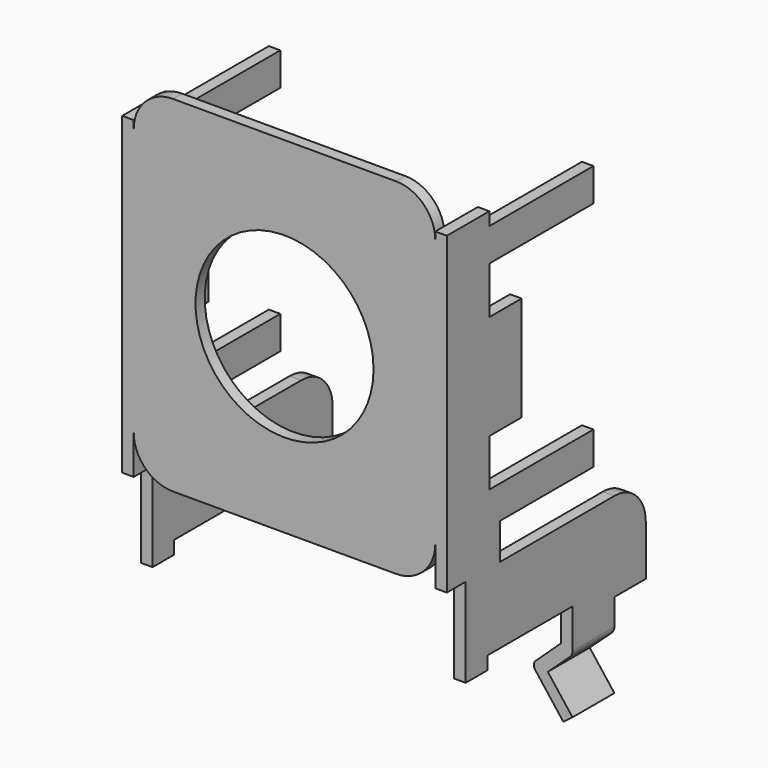
from build123d import *

# Parameters (mm, degrees)
EXTRUDE003_DEPTH = 2
EXTRUDE001_DEPTH = 0.44
EXTRUDE_DEPTH    = 0.44
SKETCH027_R      = 3.4
EXTRUDE002_DEPTH = 0.44


with BuildPart() as extrude003:
    # Sketch028 → Extrude003 (new body)
    with BuildSketch(Plane.XZ):
        with BuildLine():
            Line((0, 0), (0, -1))
            ThreePointArc((0, -1), (0.027181, -1.129591), (0.104142, -1.237338))
            Line((0.104142, -1.237338), (0.941285, -2.007596))
            Line((0.941285, -2.007596), (0, -3.231801))
            Line((0, -3.231801), (0.348811, -3.5))
            Line((0.348811, -3.5), (1.43, -2.093841))
            ThreePointArc((1.43, -2.093841), (1.476737, -1.935298), (1.404702, -1.786533))
            Line((1.404702, -1.786533), (0.44, -0.885948))
            Line((0.44, -0.885948), (0.44, 0))
            Line((0.44, 0), (0, 0))
        make_face()
    extrude(amount=EXTRUDE003_DEPTH)


with BuildPart() as extrude003_1:
    # Extrude003 placement: moved
    add(extrude003.part.moved(Location((-6.2, 7.56, -3.4))))


with BuildPart() as part_mirroring:
    # Part__Mirroring: instance of Extrude003
    add(extrude003_1.part.mirror(Plane(origin=(0, 0, 0), x_dir=(0, -1, 0), z_dir=(1, 0, 0))))


with BuildPart() as extrude001:
    # Sketch026 → Extrude001 (new body)
    with BuildSketch(Plane.YZ):
        with BuildLine():
            Line((0, 12), (2.03, 12))
            Line((2.03, 12), (2.03, 11.5))
            Line((2.03, 11.5), (7, 11.5))
            Line((7, 11.5), (7, 10.24))
            Line((7, 10.24), (2.03, 10.24))
            Line((2.03, 10.24), (2.03, 8.44))
            Line((2.03, 8.44), (3.57, 8.44))
            Line((3.57, 8.44), (3.57, 4.44))
            Line((3.57, 4.44), (2.03, 4.44))
            Line((2.03, 4.44), (2.03, 2.64))
            Line((2.03, 2.64), (7, 2.64))
            Line((7, 2.64), (7, 1.38))
            Line((7, 1.38), (2.53, 1.38))
            Line((2.53, 1.38), (2.53, 0))
            Line((2.53, 0), (8, 0))
            ThreePointArc((9.5, -1.5), (9.06066, -0.43934), (8, 0))
            Line((9.5, -1.5), (9.5, -3.4))
            Line((9.5, -3.4), (6, -3.4))
            Line((6, -3.4), (6, -2.9))
            Line((6, -2.9), (1.93, -2.9))
            Line((1.93, -2.9), (1.93, -3.4))
            Line((1.93, -3.4), (0.9, -3.4))
            Line((0.9, -3.4), (0.9, 0))
            Line((0.9, 0), (0, 0))
            Line((0, 0), (0, 12))
        make_face()
    extrude(amount=EXTRUDE001_DEPTH)


with BuildPart() as extrude001_1:
    # Extrude001 placement: moved
    add(extrude001.part.moved(Location((5.76, -0.44, 0))))


with BuildPart() as fusion:
    # Sketch026 → Extrude (new body)
    with BuildSketch(Plane.YZ):
        with BuildLine():
            Line((0, 12), (2.03, 12))
            Line((2.03, 12), (2.03, 11.5))
            Line((2.03, 11.5), (7, 11.5))
            Line((7, 11.5), (7, 10.24))
            Line((7, 10.24), (2.03, 10.24))
            Line((2.03, 10.24), (2.03, 8.44))
            Line((2.03, 8.44), (3.57, 8.44))
            Line((3.57, 8.44), (3.57, 4.44))
            Line((3.57, 4.44), (2.03, 4.44))
            Line((2.03, 4.44), (2.03, 2.64))
            Line((2.03, 2.64), (7, 2.64))
            Line((7, 2.64), (7, 1.38))
            Line((7, 1.38), (2.53, 1.38))
            Line((2.53, 1.38), (2.53, 0))
            Line((2.53, 0), (8, 0))
            ThreePointArc((9.5, -1.5), (9.06066, -0.43934), (8, 0))
            Line((9.5, -1.5), (9.5, -3.4))
            Line((9.5, -3.4), (6, -3.4))
            Line((6, -3.4), (6, -2.9))
            Line((6, -2.9), (1.93, -2.9))
            Line((1.93, -2.9), (1.93, -3.4))
            Line((1.93, -3.4), (0.9, -3.4))
            Line((0.9, -3.4), (0.9, 0))
            Line((0.9, 0), (0, 0))
            Line((0, 0), (0, 12))
        make_face()
    extrude(amount=EXTRUDE_DEPTH)


with BuildPart() as fusion_1:
    # Extrude placement: moved
    add(fusion.part.moved(Location((-6.2, -0.44, 0))))

    # Fusion: union Extrude001
    add(extrude001_1.part)


with BuildPart() as metalcover:
    # Sketch027 → Extrude002 (new body)
    with BuildSketch(Plane.XZ):
        with BuildLine():
            Line((1.94, 13.2), (10.46, 13.2))
            ThreePointArc((11.96, 11.7), (11.52066, 12.76066), (10.46, 13.2))
            Line((11.96, 11.7), (11.96, 1.5))
            ThreePointArc((10.46, 0), (11.52066, 0.43934), (11.96, 1.5))
            Line((10.46, 0), (1.94, 0))
            ThreePointArc((0.44, 1.5), (0.87934, 0.43934), (1.94, 0))
            Line((0.44, 1.5), (0.44, 11.7))
            ThreePointArc((1.94, 13.2), (0.87934, 12.76066), (0.44, 11.7))
        make_face()
        with Locations((6.2, 6.6)):
            Circle(SKETCH027_R, mode=Mode.SUBTRACT)
    extrude(amount=EXTRUDE002_DEPTH)


with BuildPart() as metalcover_1:
    # Extrude002 placement: moved
    add(metalcover.part.moved(Location((-6.2, 0, 0))))

    # Fusion001: union Fusion
    add(fusion_1.part)

    # Fusion004: union Part__Mirroring
    add(part_mirroring.part)


solid = metalcover_1.part
